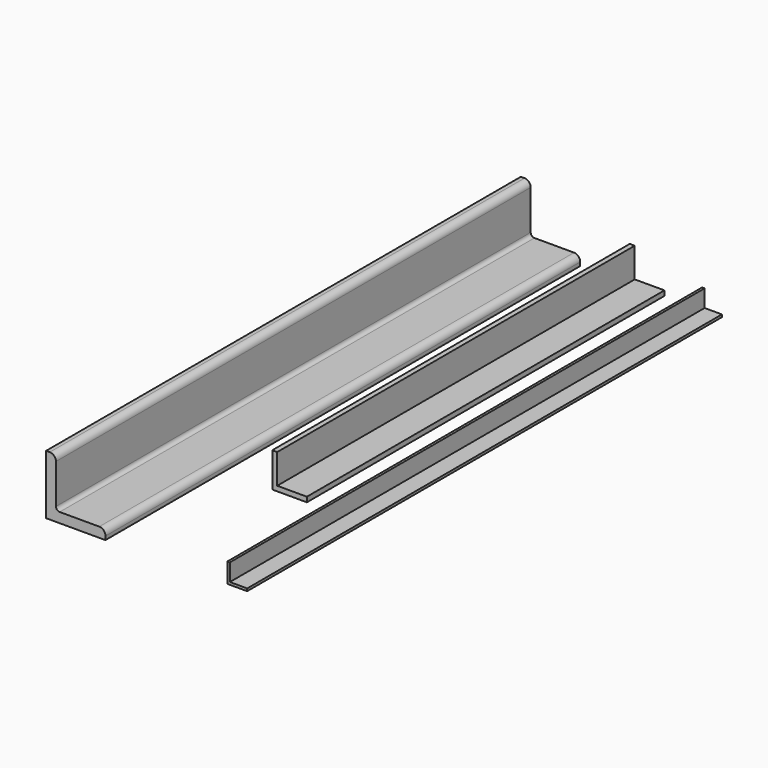
from build123d import *

# Parameters (mm, degrees)
F1_DEPTH = 1524
F3_DEPTH = 1147.7625
F5_DEPTH = 1524


with BuildPart() as f1:
    # F0 (on Front) → F1 (new body)
    with BuildSketch(Plane.XZ):
        with BuildLine():
            Line((-44.240689, 149.521273), (-53.765689, 149.521273))
            Line((-53.765689, 149.521273), (-53.765689, -2.878727))
            Line((-53.765689, -2.878727), (98.634311, -2.878727))
            Line((98.634311, -2.878727), (98.756512, 6.435835))
            ThreePointArc((98.756512, 6.435835), (94.181587, 17.795536), (82.882878, 22.519087))
            Line((82.882878, 22.519087), (-18.840689, 22.519087))
            ThreePointArc((-18.840689, 22.519087), (-25.575881, 25.308895), (-28.365689, 32.044087))
            Line((-28.365689, 32.044087), (-28.365689, 133.646273))
            ThreePointArc((-28.365689, 133.646273), (-33.015369, 144.871593), (-44.240689, 149.521273))
        make_face()
    extrude(amount=F1_DEPTH)


with BuildPart() as f3:
    # F2 (on Front) → F3 (new body)
    with BuildSketch(Plane.XZ):
        Polygon((238.811054, 88.9), (226.111054, 88.9), (226.111054, 0), (315.011054, 0), (315.011054, 12.7), (238.811054, 12.7), align=None)
    extrude(amount=F3_DEPTH)


with BuildPart() as f5:
    # F4 (on Front) → F5 (new body)
    with BuildSketch(Plane.XZ):
        Polygon((418.226479, 50.8), (411.876479, 50.8), (411.876479, 0), (462.676479, 0), (462.676479, 6.35), (418.226479, 6.35), align=None)
    extrude(amount=F5_DEPTH)


solid = Compound([f1.part, f3.part, f5.part])
